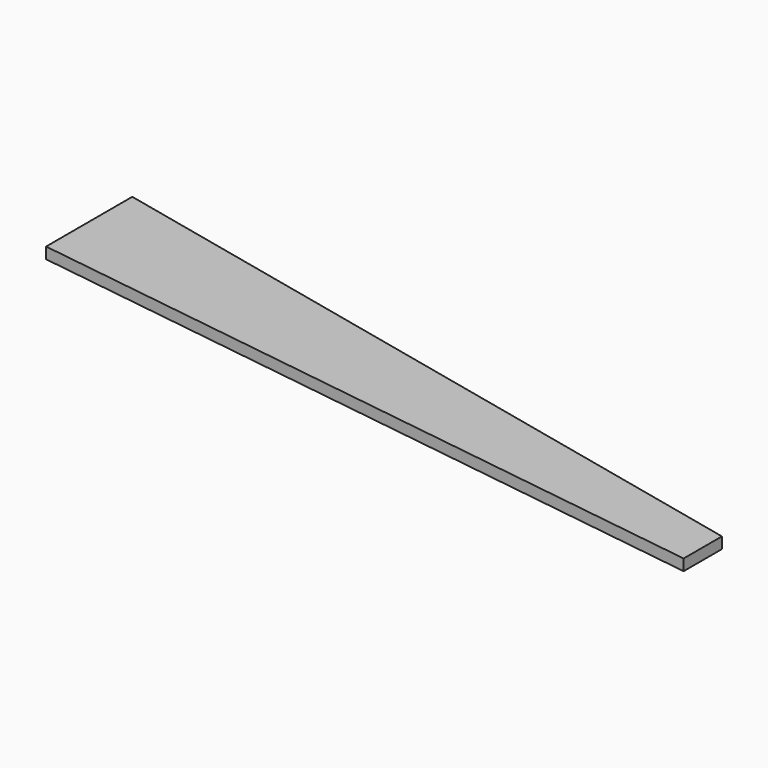
from build123d import *

# Parameters (mm, degrees)
PAD_DEPTH = 11.90625


with BuildPart() as part:
    # Sketch → Pad (new body)
    with BuildSketch(Plane.XY):
        Polygon((0, 114.3), (0, 0), (762, -107.092116), (762, -56.292116), align=None)
    extrude(amount=PAD_DEPTH)


solid = part.part
